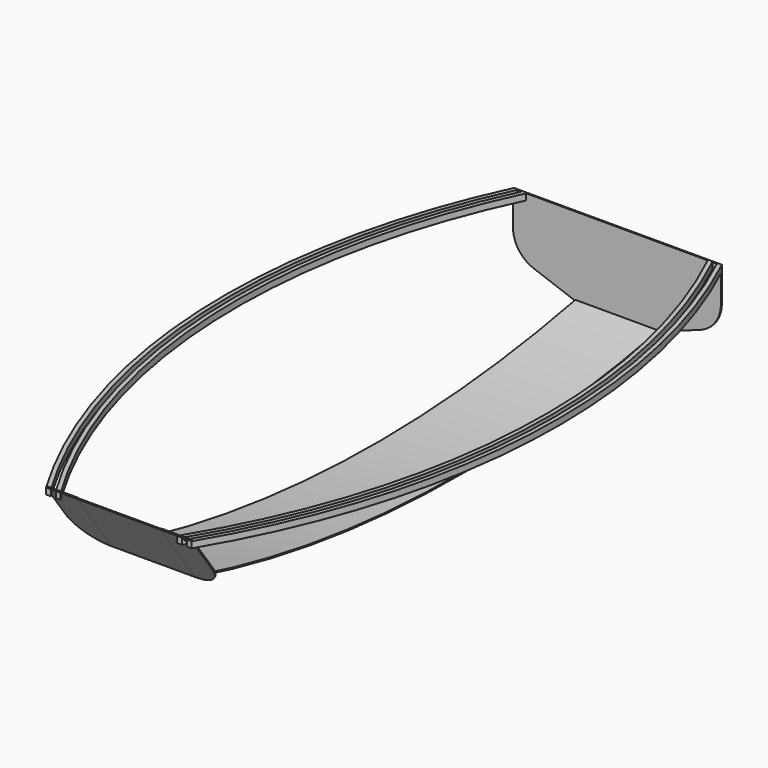
from build123d import *

# Parameters (mm, degrees)
F0_W           = 3000
F0_H           = 500
F1_DEPTH       = 200
F1_DEPTH_BACK  = 200
F3_DEPTH       = 400.001
F5_DEPTH       = 400.001
F26_DEPTH      = 6
F29_DEPTH      = 30
F32_DEPTH      = 6
F35_DEPTH      = 25
F35_DEPTH_BACK = 10


with BuildPart() as f1:
    # F0 (on Right) → F1 (new body, two sides)
    with BuildSketch(Plane.YZ) as f1_sk:
        with Locations((-1500, 250)):
            Rectangle(F0_W, F0_H)
    extrude(amount=F1_DEPTH)
    extrude(f1_sk.sketch, amount=-F1_DEPTH_BACK)

    # F2 (on face) → F3 (cut, through all)
    with BuildSketch(Plane.YZ.offset(200)):
        with BuildLine():
            Line((-3000, 0), (-1199.9999999986, 0))
            ThreePointArc((-1199.9999999986, 0), (-2003.2486734251, 54.0104634602), (-2792.036069143, 215.0694771201))
            Line((-2792.036069143, 215.0694771201), (-3000, 500))
            Line((-3000, 500), (-3000, 0))
        make_face()
        with BuildLine():
            Line((-1199.9999999986, 0), (0, 0))
            Line((0, 0), (0, 121.2246173204))
            ThreePointArc((0, 121.2246173204), (-596.9462279681, 30.3830819693), (-1199.9999999986, 0))
        make_face()
    extrude(amount=-F3_DEPTH, mode=Mode.SUBTRACT)

    # F4 (on face) → F5 (cut, through all)
    with BuildSketch(Plane.YZ.offset(200)):
        with BuildLine():
            Line((-2992.5718185587, 500), (-2788.4248667868, 220.2991044022))
            ThreePointArc((-2788.4248667868, 220.2991044022), (-1402.7557748773, 9.4302361333), (-6, 126.1256397502))
            Line((-6, 126.1256397502), (-6, 500))
            Line((-6, 500), (-2992.5718185587, 500))
        make_face()
    extrude(amount=-F5_DEPTH, mode=Mode.SUBTRACT)

    # F25 (on face) → F26 (join)
    with BuildSketch(Plane(origin=(0, -1719.2076616053, -1254.8082938014), x_dir=(1, 0, 0), z_dir=(0, -0.8077347124, -0.5895461258))):
        with BuildLine():
            ThreePointArc((-350, 1969.7531298143), (-306.066017178, 1863.6871126364), (-200, 1819.7531298143))
            Line((-200, 1819.7531298143), (-200, 2172.5057334987))
            Line((-200, 2172.5057334987), (-350, 2172.5057334987))
            Line((-350, 2172.5057334987), (-350, 1969.7531298143))
        make_face()
    extrude(amount=-F26_DEPTH)

    # F27: F1 across plane


with BuildPart() as f1_1:
    add(f1.part)
    add(f1.part.mirror(Plane.YZ))

    # F28 (on offset) → F29 (join)
    with BuildSketch(Plane.XY.offset(500)):
        with BuildLine():
            ThreePointArc((-279.8554782444, -3000), (-738.9981172291, -1519.5883890542), (-433.5777043409, 0))
            Line((-433.5777043409, 0), (-455.7501152614, 0))
            ThreePointArc((-455.7501152614, 0), (-759.0395211586, -1519.2869883443), (-303.291351886, -3000))
            Line((-303.291351886, -3000), (-279.8554782444, -3000))
        make_face()
        with BuildLine():
            Line((-477.8906365943, 0), (-500, 0))
            ThreePointArc((-500, 0), (-799.1195970095, -1518.7059798505), (-350, -3000))
            Line((-350, -3000), (-326.6723920839, -3000))
            ThreePointArc((-326.6723920839, -3000), (-647.2242800034, -2278.3764408495), (-779.9804109366, -1500))
            ThreePointArc((-779.9804109366, -1500), (-720.5554965192, -731.5483620704), (-477.8906365943, 0))
        make_face()
    extrude(amount=-F29_DEPTH)

    # F30: F1 across plane


with BuildPart() as f1_2:
    add(f1_1.part)
    add(f1_1.part.mirror(Plane.YZ))

    # F31 (on Front) → F32 (join)
    with BuildSketch(Plane.XZ):
        with BuildLine():
            Line((200, 500), (200, 121.2246173204))
            Line((200, 121.2246173204), (401.3030214989, 194.4929252138))
            ThreePointArc((401.3030214989, 194.4929252138), (472.8728066433, 249.410352879), (500, 335.4468183317))
            Line((500, 335.4468183317), (500, 470))
            Line((500, 470), (500, 500))
            Line((500, 500), (200, 500))
        make_face()
    extrude(amount=F32_DEPTH)

    # F33: F1 across plane


with BuildPart() as f1_3:
    add(f1_2.part)
    add(f1_2.part.mirror(Plane.YZ))


with BuildPart() as f35:
    # F34 (on offset) → F35 (new body, two sides)
    with BuildSketch(Plane.XZ.offset(2000)) as f35_sk:
        with BuildLine():
            Line((-200, 6), (-100, 6))
            Line((-100, 6), (-100, 26))
            Line((-100, 26), (-200, 26))
            ThreePointArc((-200, 26), (-222.5742630967, 27.9749921084), (-244.4626186323, 33.8399592978))
            Line((-244.4626186323, 33.8399592978), (-697.5723728465, 198.7584226875))
            ThreePointArc((-697.5723728465, 198.7584226875), (-759.5995199718, 246.353526664), (-783.1097542142, 320.9184633896))
            Line((-783.1097542142, 320.9184633896), (-783.1097542142, 500))
            Line((-783.1097542142, 500), (-803.1097542142, 500))
            Line((-803.1097542142, 500), (-803.1097542142, 470))
            Line((-803.1097542142, 470), (-803.1097542142, 320.9184633896))
            ThreePointArc((-803.1097542142, 320.9184633896), (-775.9825608575, 234.881997937), (-704.412775713, 179.9645702718))
            Line((-704.412775713, 179.9645702718), (-251.3030214989, 15.0461068821))
            ThreePointArc((-251.3030214989, 15.0461068821), (-226.04722665, 8.2788370482), (-200, 6))
        make_face()
    extrude(amount=F35_DEPTH)
    extrude(f35_sk.sketch, amount=-F35_DEPTH_BACK)


solid = f1_3.part
